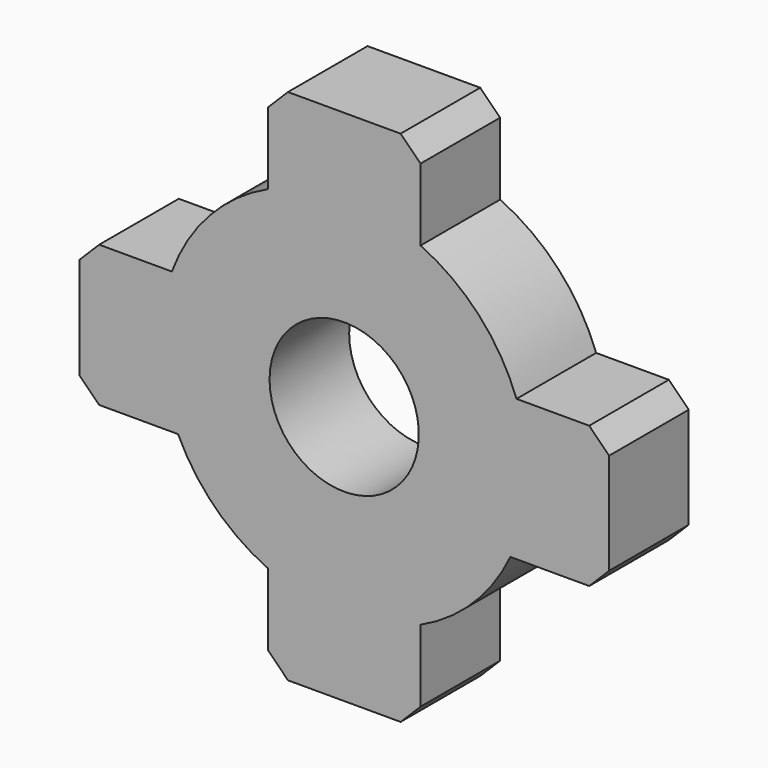
from build123d import *

# Parameters (mm, degrees)
F1_DEPTH = 25.4
F3_D     = 38.1
F4_SIZE  = 5.08
F5_SIZE  = 5.08
F6_SIZE  = 5.08
F7_SIZE  = 5.08
F8_SIZE  = 5.08
F9_SIZE  = 5.08
F10_SIZE = 5.08
F11_SIZE = 5.08


with BuildPart() as f1:
    # F0 (on Front) → F1 (new body)
    with BuildSketch(Plane.XZ):
        with BuildLine():
            Line((-67.625843, -19.898139), (-42.411047, -19.898139))
            ThreePointArc((-42.411047, -19.898139), (-32.947346, -33.303232), (-19.441356, -42.622372))
            Line((-19.441356, -42.622372), (-19.441356, -66.095218))
            Line((-19.441356, -66.095218), (19.480696, -66.095218))
            Line((19.480696, -66.095218), (19.480696, -42.604406))
            ThreePointArc((19.480696, -42.604406), (32.962715, -33.28802), (42.411047, -19.898139))
            Line((42.411047, -19.898139), (67.625843, -19.898139))
            Line((67.625843, -19.898139), (67.625843, 16.122991))
            Line((67.625843, 16.122991), (43.985021, 16.122991))
            ThreePointArc((43.985021, 16.122991), (34.384453, 31.817326), (19.480696, 42.604406))
            Line((19.480696, 42.604406), (19.480696, 66.095218))
            Line((19.480696, 66.095218), (-19.441356, 66.095218))
            Line((-19.441356, 66.095218), (-19.441356, 42.622372))
            ThreePointArc((-19.441356, 42.622372), (-34.369763, 31.833195), (-43.985021, 16.122991))
            Line((-43.985021, 16.122991), (-67.625843, 16.122991))
            Line((-67.625843, 16.122991), (-67.625843, -19.898139))
        make_face()
    extrude(amount=F1_DEPTH)

    # F3 (through all)
    with Locations(Plane(origin=(0, 0, 0), x_dir=(1, 0, 0), z_dir=(0, 1, 0))):
        with Locations((0, 0)):
            Hole(F3_D / 2)

    # F4
    f4_edges = [f1.edges().sort_by_distance(p)[0] for p in [
        (19.480696, -12.7, 66.095218),
    ]]
    chamfer(f4_edges, length=F4_SIZE)

    # F5
    f5_edges = [f1.edges().sort_by_distance(p)[0] for p in [
        (-19.441356, -12.7, 66.095218),
    ]]
    chamfer(f5_edges, length=F5_SIZE)

    # F6
    f6_edges = [f1.edges().sort_by_distance(p)[0] for p in [
        (-67.625843, -12.7, 16.122991),
    ]]
    chamfer(f6_edges, length=F6_SIZE)

    # F7
    f7_edges = [f1.edges().sort_by_distance(p)[0] for p in [
        (-67.625843, -12.7, -19.898139),
    ]]
    chamfer(f7_edges, length=F7_SIZE)

    # F8
    f8_edges = [f1.edges().sort_by_distance(p)[0] for p in [
        (19.480696, -12.7, -66.095218),
    ]]
    chamfer(f8_edges, length=F8_SIZE)

    # F9
    f9_edges = [f1.edges().sort_by_distance(p)[0] for p in [
        (-19.441356, -12.7, -66.095218),
    ]]
    chamfer(f9_edges, length=F9_SIZE)

    # F10
    f10_edges = [f1.edges().sort_by_distance(p)[0] for p in [
        (67.625843, -12.7, 16.122991),
    ]]
    chamfer(f10_edges, length=F10_SIZE)

    # F11
    f11_edges = [f1.edges().sort_by_distance(p)[0] for p in [
        (67.625843, -12.7, -19.898139),
    ]]
    chamfer(f11_edges, length=F11_SIZE)


solid = f1.part
